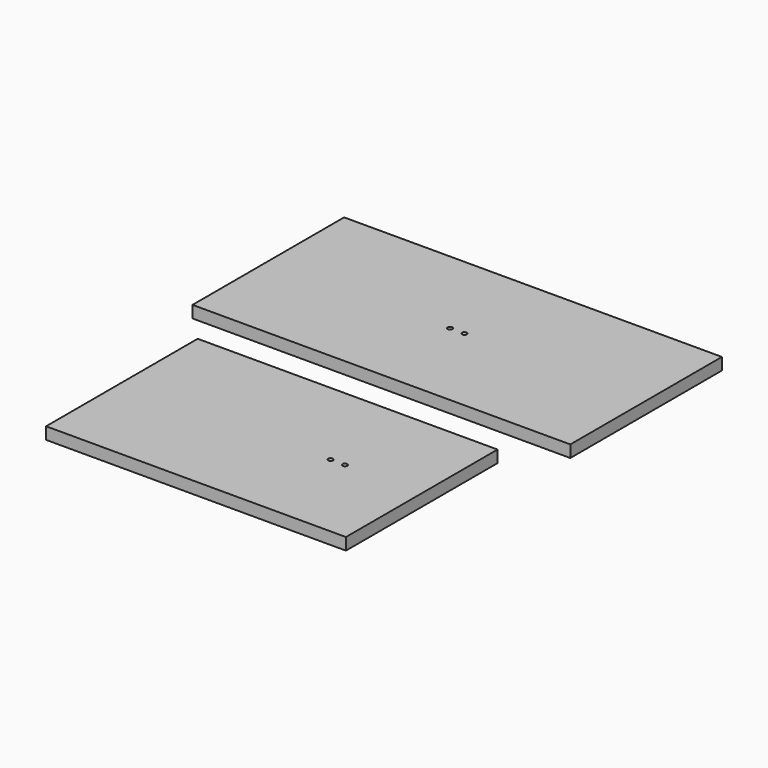
from build123d import *

# Parameters (mm, degrees)
F0_W     = 315
F0_H     = 158
F0_R     = 2
F0_W_2   = 250
F1_DEPTH = 10


with BuildPart() as f1:
    # F0 (on Top) → F1 (new body)
    with BuildSketch(Plane.XY):
        Rectangle(F0_W, F0_H)
        with Locations((-6, 0)):
            Circle(F0_R, mode=Mode.SUBTRACT)
        with Locations((6, 0)):
            Circle(F0_R, mode=Mode.SUBTRACT)
        with Locations((0, -193.235412)):
            Rectangle(F0_W_2, F0_H)
        with Locations((49, -193.235412)):
            Circle(F0_R, mode=Mode.SUBTRACT)
        with Locations((61, -193.235412)):
            Circle(F0_R, mode=Mode.SUBTRACT)
    extrude(amount=F1_DEPTH)


solid = f1.part
